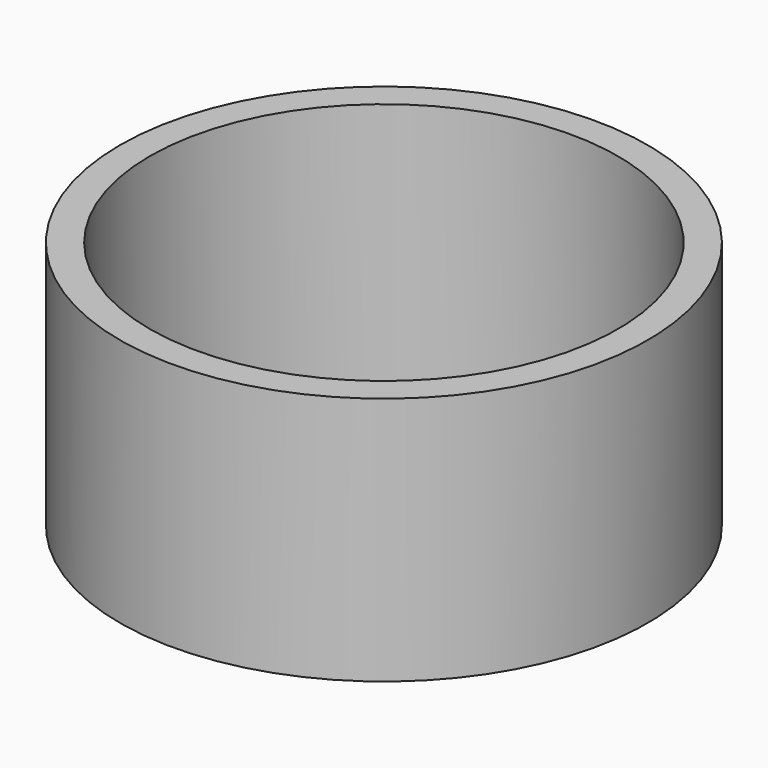
from build123d import *

# Parameters (mm, degrees)
SKETCH_W = 1.2
SKETCH_H = 10


with BuildPart() as part:
    # Sketch → Revolution (revolve)
    with BuildSketch(Plane.XZ):
        with Locations((-10, 5)):
            Rectangle(SKETCH_W, SKETCH_H)
    revolve(axis=Axis((0, 0, 0), (0, 0, 1)))


solid = part.part
